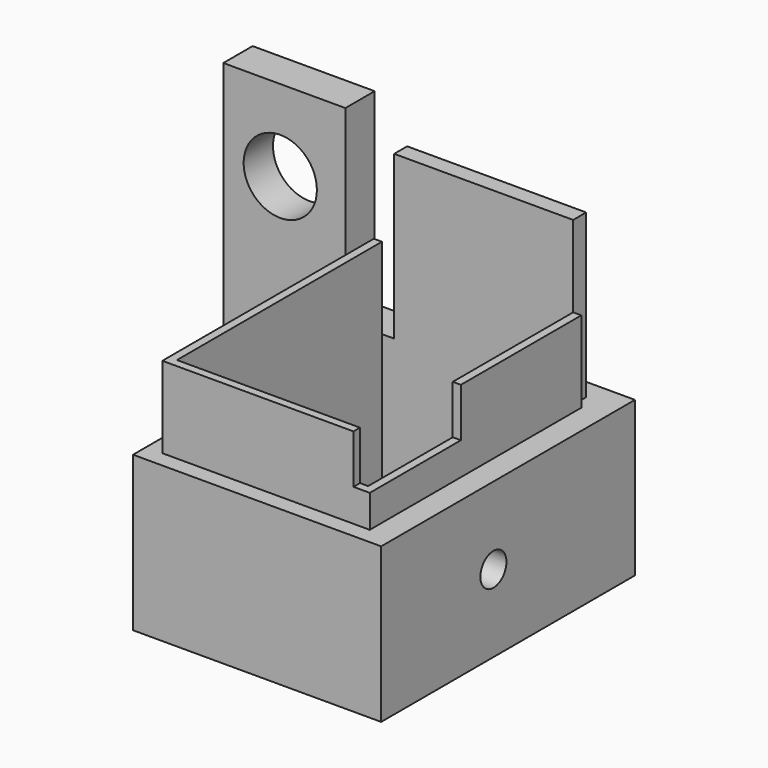
from build123d import *

# Parameters (mm, degrees)
SKETCH036_R             = 2.25
PAD016_DEPTH            = 2.25
SKETCH037_W             = 11
SKETCH037_H             = 1
PAD017_DEPTH            = 10
SKETCH038_W             = 15.25
SKETCH038_H             = 9.5
PAD018_DEPTH            = 17.25
SKETCH039_W             = 11.75
SKETCH039_H             = 15.75
POCKET007008_DEPTH      = 9.501
SKETCH040_R             = 1
POCKET007009_DEPTH      = 23.501
PAD019_DEPTH            = 5
SKETCH043_W             = 1
SKETCH043_H             = 7
POCKET007011_DEPTH      = 3
BODY008_PLACEMENT_ANGLE = 90


with BuildPart() as part:
    # Sketch036 → Pad016 (new body)
    with BuildSketch(Plane.XY):
        Polygon((-75.5, -11), (-68, -11), (-68, -22.5), (-52, -22.5), (-52, -32), (-75.5, -32), align=None)
        with Locations((-72, -16)):
            Circle(SKETCH036_R, mode=Mode.SUBTRACT)
        with Locations((-72, -28)):
            Circle(SKETCH036_R, mode=Mode.SUBTRACT)
        with Locations((-57, -28)):
            Circle(SKETCH036_R, mode=Mode.SUBTRACT)
    extrude(amount=PAD016_DEPTH)

    # Sketch037 (on DatumPlane) → Pad017 (join)
    with BuildSketch(Plane(origin=(-68, -22.5, 0), x_dir=(1, 0, 0), z_dir=(0, -1, 0))):
        with Locations((8.5, 1.75)):
            Rectangle(SKETCH037_W, SKETCH037_H)
    extrude(amount=-PAD017_DEPTH)

    # Sketch038 (on DatumPlane) → Pad018 (join)
    with BuildSketch(Plane.XY.offset(2.25)):
        with Locations((-59.625, -27.25)):
            Rectangle(SKETCH038_W, SKETCH038_H)
    extrude(amount=PAD018_DEPTH)

    # Sketch039 (on DatumPlane) → Pocket007008 (cut, through all)
    with BuildSketch(Plane(origin=(-68, -22.5, 0), x_dir=(1, 0, 0), z_dir=(0, -1, 0))):
        with Locations((8.125, 10.125)):
            Rectangle(SKETCH039_W, SKETCH039_H)
    extrude(amount=POCKET007008_DEPTH, mode=Mode.SUBTRACT)

    # Sketch040 (on DatumPlane) → Pocket007009 (cut, through all)
    with BuildSketch(Plane(origin=(-52, -27.25, 2.25), x_dir=(0, -1, 0), z_dir=(-1, 0, 0))):
        with Locations((0, 8.625)):
            Circle(SKETCH040_R)
    extrude(amount=POCKET007009_DEPTH, mode=Mode.SUBTRACT)

    # Sketch042 (on DatumPlane) → Pad019 (join)
    with BuildSketch(Plane(origin=(-68, -22.5, 0), x_dir=(1, 0, 0), z_dir=(0, -1, 0))):
        Polygon((14.5, 18.5), (14.5, 2.25), (14, 2.25), (14, 18), (2.25, 18), (2.25, 2.25), (1.75, 2.25), (1.75, 18.5), align=None)
    extrude(amount=-PAD019_DEPTH)

    # Sketch043 (on DatumPlane) → Pocket007011 (cut)
    with BuildSketch(Plane(origin=(-68, -17.5, 0), x_dir=(-1, 0, 0), z_dir=(0, 1, 0))):
        with Locations((-14, 15)):
            Rectangle(SKETCH043_W, SKETCH043_H)
    extrude(amount=-POCKET007011_DEPTH, mode=Mode.SUBTRACT)


with BuildPart() as part_1:
    # Body002 placement: moved
    add(part.part.moved(Location((0, 0, 22))))


with BuildPart() as part_2:
    # Body008 placement: moved
    add(part_1.part.moved(Location((24, 10, 52))).rotate(Axis((24, 10, 52), (1, 0, 0)), BODY008_PLACEMENT_ANGLE))


solid = part_2.part
